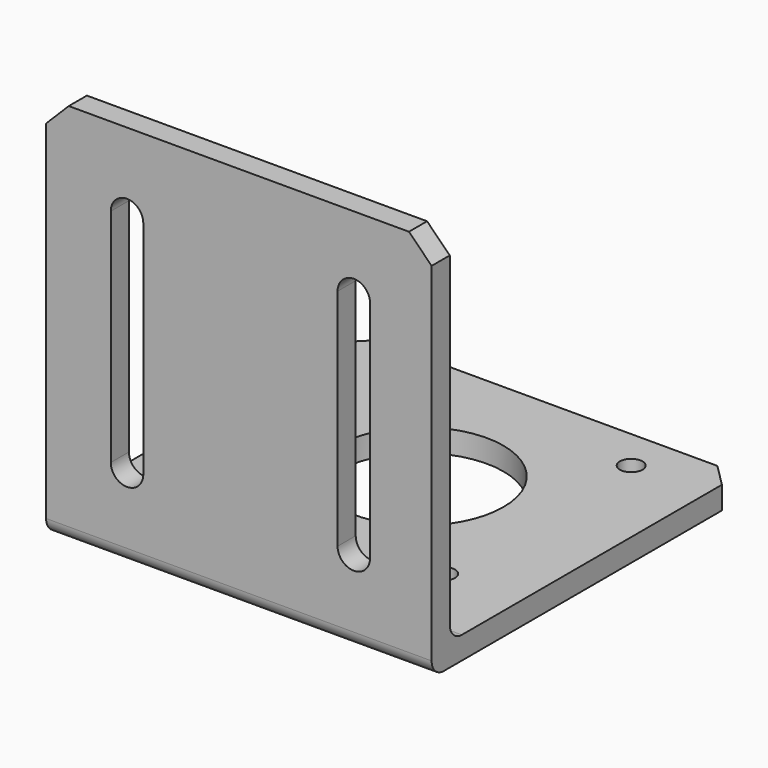
from build123d import *

# Parameters (mm, degrees)
SKETCH_R     = 11
SKETCH_R_2   = 1.5
PAD_DEPTH    = 3
SKETCH001_W  = 51
SKETCH001_H  = 3
PAD001_DEPTH = 48
POCKET_DEPTH = 5
FILLET_R     = 2
FILLET001_R  = 2


with BuildPart() as part:
    # Sketch → Pad (new body)
    with BuildSketch(Plane.XY):
        Polygon((0, 0), (51, 0), (51, 48), (48, 51), (3, 51), (0, 48), align=None)
        with Locations((25.5, 30)):
            Circle(SKETCH_R, mode=Mode.SUBTRACT)
        with Locations((10, 45.5)):
            Circle(SKETCH_R_2, mode=Mode.SUBTRACT)
        with Locations((10, 14.5)):
            Circle(SKETCH_R_2, mode=Mode.SUBTRACT)
        with Locations((41, 14.5)):
            Circle(SKETCH_R_2, mode=Mode.SUBTRACT)
        with Locations((41, 45.5)):
            Circle(SKETCH_R_2, mode=Mode.SUBTRACT)
    extrude(amount=PAD_DEPTH)

    # Sketch001 (on Face13 of Pad) → Pad001 (join)
    with BuildSketch(Plane.XY.offset(3)):
        with Locations((25.5, 1.5)):
            Rectangle(SKETCH001_W, SKETCH001_H)
    extrude(amount=PAD001_DEPTH)

    # Sketch002 (on Face18 of Pad001) → Pocket (cut)
    with BuildSketch(Plane(origin=(0, 3, 0), x_dir=(-1, 0, 0), z_dir=(0, 1, 0))):
        Polygon((-51, 48), (-51, 51), (-48, 51), align=None)
        Polygon((-3, 51), (0, 51), (0, 48), align=None)
        with BuildLine():
            ThreePointArc((-38.55959, 41), (-40.70959, 43.15), (-42.85959, 41))
            Line((-42.85959, 41), (-42.85959, 11.3))
            ThreePointArc((-42.85959, 11.3), (-40.70959, 9.15), (-38.55959, 11.3))
            Line((-38.55959, 41), (-38.55959, 11.3))
        make_face()
        with BuildLine():
            ThreePointArc((-8.55959, 40.561928), (-10.70959, 42.711928), (-12.85959, 40.561928))
            Line((-12.85959, 40.561928), (-12.85959, 11.3))
            ThreePointArc((-12.85959, 11.3), (-10.70959, 9.15), (-8.55959, 11.3))
            Line((-8.55959, 40.561928), (-8.55959, 11.3))
        make_face()
    extrude(amount=-POCKET_DEPTH, mode=Mode.SUBTRACT)

    # Fillet
    fillet_edges = [part.edges().sort_by_distance(p)[0] for p in [
        (25.5, 3, 3),
    ]]
    fillet(fillet_edges, radius=FILLET_R)

    # Fillet001
    fillet001_edges = [part.edges().sort_by_distance(p)[0] for p in [
        (25.5, 0, 0),
    ]]
    fillet(fillet001_edges, radius=FILLET001_R)


solid = part.part
